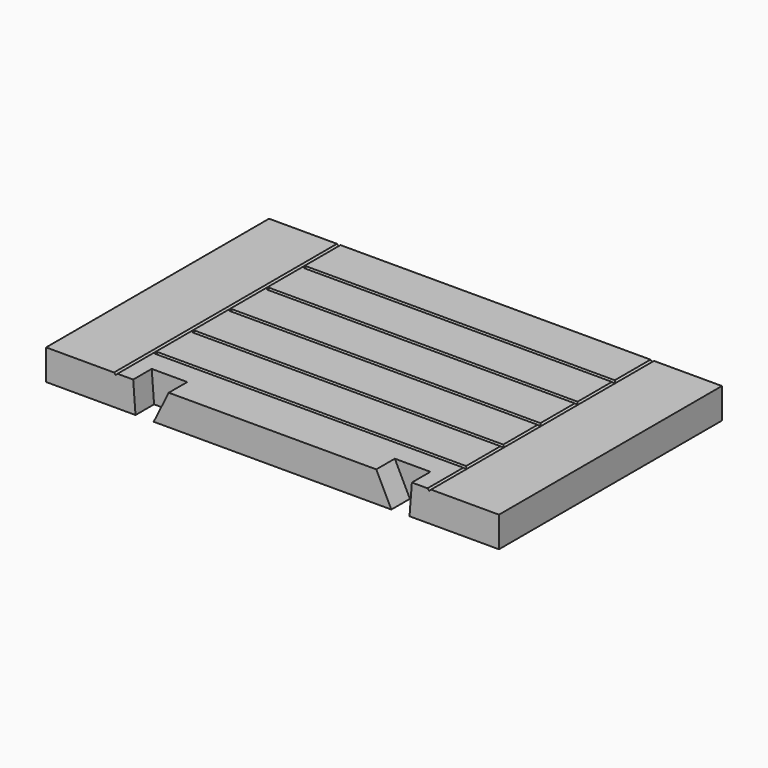
from build123d import *

# Parameters (mm, degrees)
F0_W      = 457.2
F0_H      = 67.7333333333
F1_DEPTH  = 44.45
F10_DEPTH = 33.782


with BuildPart() as f1:
    # F0 (on Top) → F1 (new body)
    with BuildSketch(Plane.XY):
        Polygon((-228.6, 203.2), (-330.2, 203.2), (-330.2, -203.2), (-228.6, -203.2), (-228.6, -135.4666666667), (-228.6, -67.7333333333), (-228.6, 0), (-228.6, 67.7333333333), (-228.6, 135.4666666667), align=None)
        with Locations((0, -169.3333333333)):
            Rectangle(F0_W, F0_H)
        with Locations((0, -101.6)):
            Rectangle(F0_W, F0_H)
        with Locations((0, -33.8666666667)):
            Rectangle(F0_W, F0_H)
        with Locations((0, 33.8666666667)):
            Rectangle(F0_W, F0_H)
        with Locations((0, 101.6)):
            Rectangle(F0_W, F0_H)
        with Locations((0, 169.3333333333)):
            Rectangle(F0_W, F0_H)
        Polygon((330.2, 203.2), (228.6, 203.2), (228.6, 135.4666666667), (228.6, 67.7333333333), (228.6, 0), (228.6, -67.7333333333), (228.6, -135.4666666667), (228.6, -203.2), (330.2, -203.2), align=None)
    extrude(amount=F1_DEPTH)

    # F4: sweep along a path in F2
    with BuildLine(Plane.XY.offset(44.45)) as f4_path:
        Line((-228.6, 203.2), (-228.6, -203.2))
    # F3 (on face) → F4 (sweep, cut)
    with BuildSketch(Plane.XZ.offset(203.2)):
        Polygon((-226.06, 44.45), (-228.6, 44.45), (-231.14, 44.45), (-228.6, 41.91), align=None)
        Polygon((228.6, 44.45), (226.06, 44.45), (228.6, 41.91), (231.14, 44.45), align=None)
    sweep(path=f4_path.line, mode=Mode.SUBTRACT)

    # F8: sweep along a path in F6
    with BuildLine(Plane.XY.offset(44.45)) as f8_path:
        Line((-226.06, -67.7333333333), (226.06, -67.7333333333))
    # F7 (on offset) → F8 (sweep, cut)
    with BuildSketch(Plane.YZ.offset(228.6)):
        Polygon((-132.9266666667, 44.45), (-135.4666666667, 44.45), (-138.0066666667, 44.45), (-135.4666666667, 41.91), align=None)
        Polygon((-67.7333333333, 44.45), (-70.2733333333, 44.45), (-67.7333333333, 41.91), (-65.1933333333, 44.45), align=None)
        Polygon((0, 44.45), (-2.54, 44.45), (0, 41.91), (2.54, 44.45), align=None)
        Polygon((67.7333333333, 44.45), (65.1933333333, 44.45), (67.7333333333, 41.91), (70.2733333333, 44.45), align=None)
        Polygon((135.4666666667, 44.45), (132.9266666667, 44.45), (135.4666666667, 41.91), (138.0066666667, 44.45), align=None)
    sweep(path=f8_path.line, mode=Mode.SUBTRACT)

    # F9 (on face) → F10 (cut)
    with BuildSketch(Plane.XZ.offset(203.2)):
        Polygon((-173.269695488, 0), (-151.3092788213, 44.45), (-203.2, 44.45), (-199.7604166667, 0), align=None)
        Polygon((203.2, 44.45), (151.3092788213, 44.45), (173.269695488, 0), (199.7604166667, 0), align=None)
    extrude(amount=-F10_DEPTH, mode=Mode.SUBTRACT)


solid = f1.part
